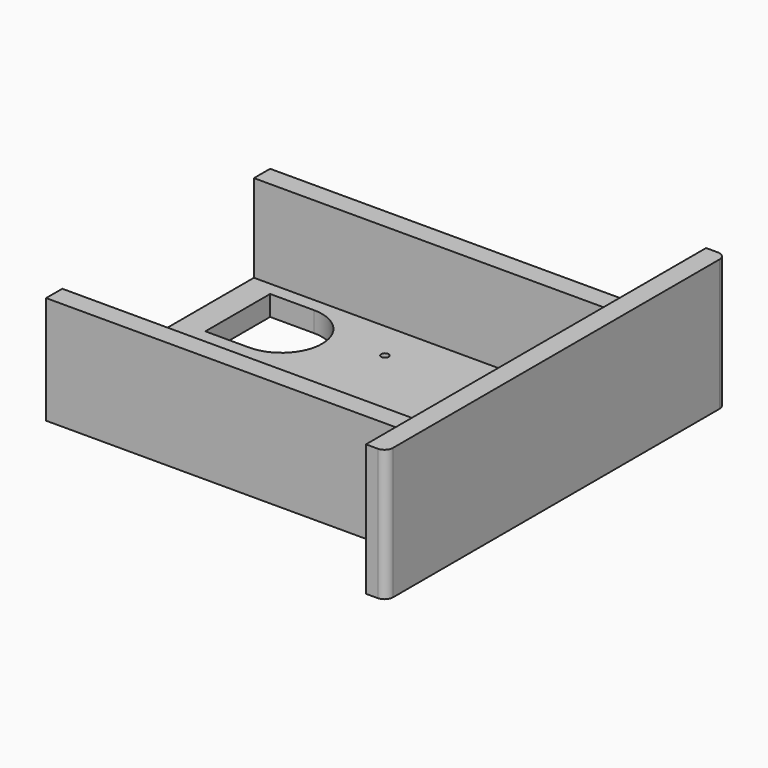
from build123d import *

# Parameters (mm, degrees)
F0_W      = 355.6
F0_H      = 263.525
F1_DEPTH  = 19.05
F2_W      = 355.6
F2_H      = 19.05
F3_DEPTH  = 82.55
F4_W      = 19.05
F4_H      = 400.05
F5_DEPTH  = 123.825
F6_R      = 7.9375
F8_DEPTH  = 25.4
F9_R      = 3.571875
F10_DEPTH = 25.4


with BuildPart() as f1:
    # F0 (on Top) → F1 (new body)
    with BuildSketch(Plane.XY):
        with Locations((177.8, 131.7625)):
            Rectangle(F0_W, F0_H)
    extrude(amount=F1_DEPTH)

    # F2 (on face) → F3 (join)
    with BuildSketch(Plane.XY.offset(19.05)):
        with Locations((177.8, 254)):
            Rectangle(F2_W, F2_H)
        with Locations((177.8, 9.525)):
            Rectangle(F2_W, F2_H)
    extrude(amount=F3_DEPTH)

    # F4 (on Top) → F5 (join)
    with BuildSketch(Plane.XY):
        with Locations((365.125, 131.7752)):
            Rectangle(F4_W, F4_H)
    extrude(amount=F5_DEPTH)

    # F6
    f6_edges = [f1.edges().sort_by_distance(p)[0] for p in [
        (374.65, 331.8002, 61.9125),
        (374.65, -68.2498, 61.9125),
    ]]
    fillet(f6_edges, radius=F6_R)

    # F7 (on face) → F8 (cut)
    with BuildSketch(Plane.XY.offset(19.05)):
        with BuildLine():
            Line((66.675, 231.775), (25.4, 231.775))
            Line((25.4, 231.775), (25.4, 155.575))
            Line((25.4, 155.575), (66.675, 155.575))
            ThreePointArc((66.675, 155.575), (104.775, 193.675), (66.675, 231.775))
        make_face()
    extrude(amount=-F8_DEPTH, mode=Mode.SUBTRACT)

    # F9 (on face) → F10 (cut)
    with BuildSketch(Plane.XY.offset(19.05)):
        with Locations((152.4, 207.9752)):
            Circle(F9_R)
        with Locations((152.4, 55.5752)):
            Circle(F9_R)
        with Locations((254, 207.9752)):
            Circle(F9_R)
        with Locations((254, 55.5752)):
            Circle(F9_R)
    extrude(amount=-F10_DEPTH, mode=Mode.SUBTRACT)


solid = f1.part
